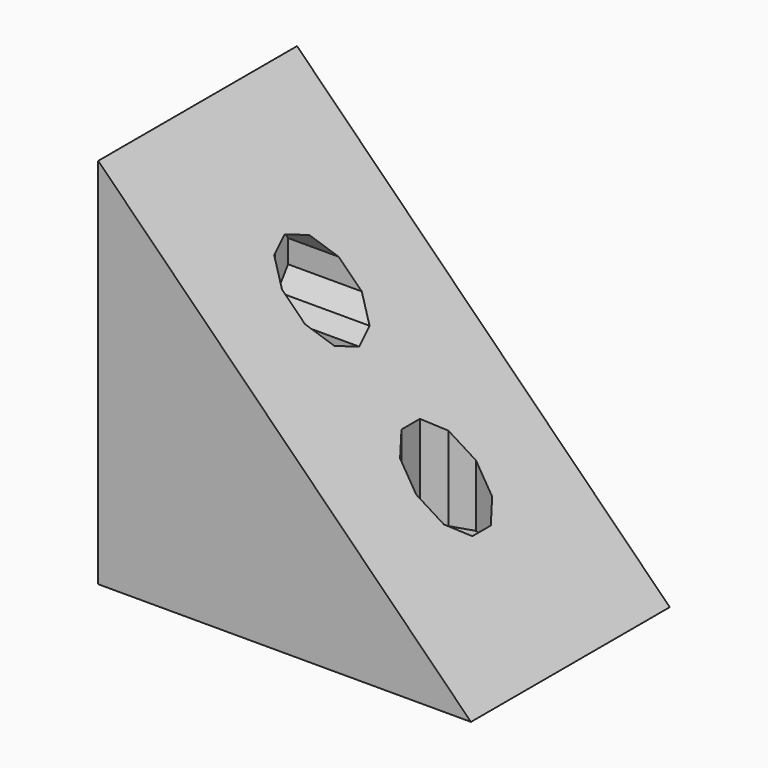
from build123d import *

# Parameters (mm, degrees)
PRISM090_DEPTH                = 30
PRISM090_PITCH_ANGLE          = 90
PRISM091_DEPTH                = 10
PRISM091_PITCH_ANGLE          = 90
PRISM092_DEPTH                = 30
PRISM092_ROLL_ANGLE           = 90
PRISM093_DEPTH                = 10
PRISM093_ROLL_ANGLE           = 90
CUBE090_W                     = 60
CUBE090_H                     = 30
CUBE090_DEPTH                 = 20
CUBE090_PLACEMENT_ANGLE       = 45
CUBE089_W                     = 30
CUBE089_H                     = 30
CUBE089_DEPTH                 = 20
DIFFERENCE054_PITCH_ANGLE     = 90
DIFFERENCE054_PLACEMENT_ANGLE = -90


with BuildPart() as prism090:
    # prism090 → prism090 (new body)
    with BuildSketch(Plane.XY):
        Polygon((1.6, 0), (1.294427, 0.940456), (0.494427, 1.52169), (-0.494427, 1.52169), (-1.294427, 0.940456), (-1.6, 0), (-1.294427, -0.940456), (-0.494427, -1.52169), (0.494427, -1.52169), (1.294427, -0.940456), align=None)
    extrude(amount=PRISM090_DEPTH)


with BuildPart() as prism090_1:
    # prism090 pitch: moved
    add(prism090.part.rotate(Axis((0, 0, 0), (0, 1, 0)), PRISM090_PITCH_ANGLE))


with BuildPart() as prism090_2:
    # prism090 placement: moved
    add(prism090_1.part.moved(Location((5, 20, 10))))


with BuildPart() as prism091:
    # prism091 → prism091 (new body)
    with BuildSketch(Plane.XY):
        Polygon((3, 0), (2.427051, 1.763356), (0.927051, 2.85317), (-0.927051, 2.85317), (-2.427051, 1.763356), (-3, 0), (-2.427051, -1.763356), (-0.927051, -2.85317), (0.927051, -2.85317), (2.427051, -1.763356), align=None)
    extrude(amount=PRISM091_DEPTH)


with BuildPart() as prism091_1:
    # prism091 pitch: moved
    add(prism091.part.rotate(Axis((0, 0, 0), (0, 1, 0)), PRISM091_PITCH_ANGLE))


with BuildPart() as prism091_2:
    # prism091 placement: moved
    add(prism091_1.part.moved(Location((15, 20, 10))))


with BuildPart() as prism092:
    # prism092 → prism092 (new body)
    with BuildSketch(Plane.XY):
        Polygon((1.6, 0), (1.294427, 0.940456), (0.494427, 1.52169), (-0.494427, 1.52169), (-1.294427, 0.940456), (-1.6, 0), (-1.294427, -0.940456), (-0.494427, -1.52169), (0.494427, -1.52169), (1.294427, -0.940456), align=None)
    extrude(amount=PRISM092_DEPTH)


with BuildPart() as prism092_1:
    # prism092 roll: moved
    add(prism092.part.rotate(Axis((0, 0, 0), (1, 0, 0)), PRISM092_ROLL_ANGLE))


with BuildPart() as prism092_2:
    # prism092 placement: moved
    add(prism092_1.part.moved(Location((10, 20, 10))))


with BuildPart() as prism093:
    # prism093 → prism093 (new body)
    with BuildSketch(Plane.XY):
        Polygon((3, 0), (2.427051, 1.763356), (0.927051, 2.85317), (-0.927051, 2.85317), (-2.427051, 1.763356), (-3, 0), (-2.427051, -1.763356), (-0.927051, -2.85317), (0.927051, -2.85317), (2.427051, -1.763356), align=None)
    extrude(amount=PRISM093_DEPTH)


with BuildPart() as prism093_1:
    # prism093 roll: moved
    add(prism093.part.rotate(Axis((0, 0, 0), (1, 0, 0)), PRISM093_ROLL_ANGLE))


with BuildPart() as prism093_2:
    # prism093 placement: moved
    add(prism093_1.part.moved(Location((10, 15, 10))))


with BuildPart() as union043:
    # cube090 → cube090 (new body)
    with BuildSketch(Plane.XY):
        with Locations((30, 15)):
            Rectangle(CUBE090_W, CUBE090_H)
    extrude(amount=CUBE090_DEPTH)


with BuildPart() as union043_1:
    # cube090 placement: moved
    add(union043.part.rotate(Axis((0, 0, 0), (0, 0, 1)), CUBE090_PLACEMENT_ANGLE))

    # union043: union prism090, prism091, prism092, prism093
    add(prism090_2.part)
    add(prism091_2.part)
    add(prism092_2.part)
    add(prism093_2.part)


with BuildPart() as difference054:
    # cube089 → cube089 (new body)
    with BuildSketch(Plane.XY):
        with Locations((15, 15)):
            Rectangle(CUBE089_W, CUBE089_H)
    extrude(amount=CUBE089_DEPTH)

    # difference054: cut union043
    add(union043_1.part, mode=Mode.SUBTRACT)


with BuildPart() as difference054_1:
    # difference054 pitch: moved
    add(difference054.part.rotate(Axis((0, 0, 0), (0, 1, 0)), DIFFERENCE054_PITCH_ANGLE))


with BuildPart() as difference054_2:
    # difference054 placement: moved
    add(difference054_1.part.moved(Location((16, 305, 228))).rotate(Axis((16, 305, 228), (0, 0, 1)), DIFFERENCE054_PLACEMENT_ANGLE))


solid = difference054_2.part
